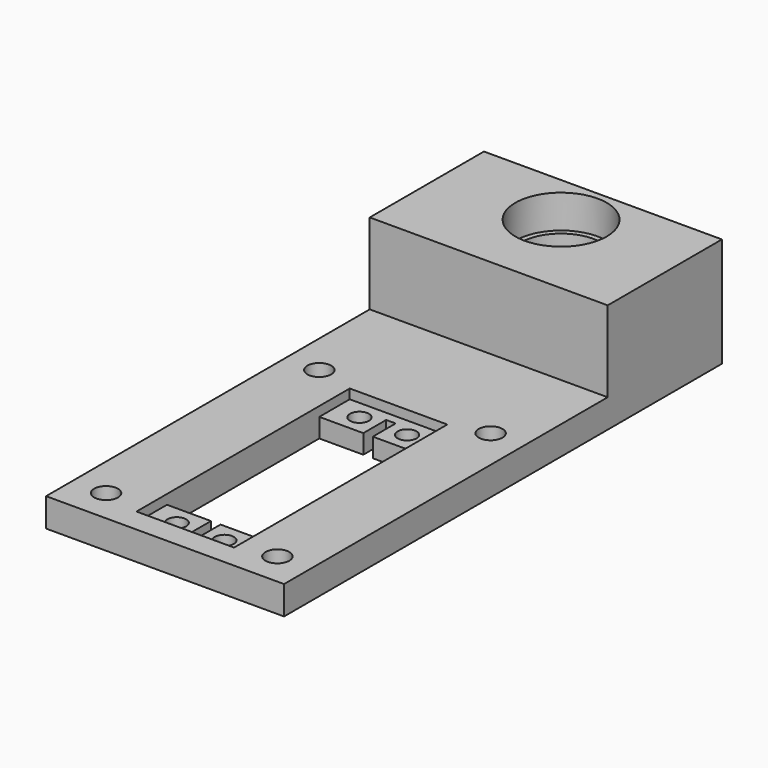
from build123d import *

# Parameters (mm, degrees)
F0_W     = 50
F0_H     = 85
F0_R     = 2.5
F0_R_2   = 2
F0_H_2   = 30
F0_R_3   = 9.6
F1_DEPTH = 6
F2_DEPTH = 2
F3_DEPTH = 17
F0_R_4   = 8.5
F4_DEPTH = 10


with BuildPart() as f1:
    # F0 (on Top) → F1 (new body)
    with BuildSketch(Plane.XY):
        with Locations((25, 42.5)):
            Rectangle(F0_W, F0_H)
        with Locations((7, 7)):
            Circle(F0_R, mode=Mode.SUBTRACT)
        with Locations((43, 7)):
            Circle(F0_R, mode=Mode.SUBTRACT)
        Polygon((35.5, 5), (15, 5), (15, 13), (15, 53), (15, 61), (35.5, 61), (35.5, 53), (35.5, 13), align=None, mode=Mode.SUBTRACT)
        with Locations((7, 63)):
            Circle(F0_R, mode=Mode.SUBTRACT)
        with Locations((43, 63)):
            Circle(F0_R, mode=Mode.SUBTRACT)
        Polygon((15, 61), (15, 53), (24.25, 53), (24.25, 59), (26.25, 59), (26.25, 53), (35.5, 53), (35.5, 61), align=None)
        with Locations((20.25, 57)):
            Circle(F0_R_2, mode=Mode.SUBTRACT)
        with Locations((30.25, 57)):
            Circle(F0_R_2, mode=Mode.SUBTRACT)
        Polygon((15, 13), (15, 5), (35.5, 5), (35.5, 13), (26.25, 13), (26.25, 7), (24.25, 7), (24.25, 13), align=None)
        with Locations((20.25, 9)):
            Circle(F0_R_2, mode=Mode.SUBTRACT)
        with Locations((30.25, 9)):
            Circle(F0_R_2, mode=Mode.SUBTRACT)
        with Locations((25, 100)):
            Rectangle(F0_W, F0_H_2)
        with Locations((25, 104)):
            Circle(F0_R_3, mode=Mode.SUBTRACT)
    extrude(amount=-F1_DEPTH)

    # F0 (on Top) → F2 (cut)
    with BuildSketch(Plane.XY):
        Polygon((15, 61), (15, 53), (24.25, 53), (24.25, 59), (26.25, 59), (26.25, 53), (35.5, 53), (35.5, 61), align=None)
        with Locations((20.25, 57)):
            Circle(F0_R_2, mode=Mode.SUBTRACT)
        with Locations((30.25, 57)):
            Circle(F0_R_2, mode=Mode.SUBTRACT)
        Polygon((15, 13), (15, 5), (35.5, 5), (35.5, 13), (26.25, 13), (26.25, 7), (24.25, 7), (24.25, 13), align=None)
        with Locations((20.25, 9)):
            Circle(F0_R_2, mode=Mode.SUBTRACT)
        with Locations((30.25, 9)):
            Circle(F0_R_2, mode=Mode.SUBTRACT)
    extrude(amount=-F2_DEPTH, mode=Mode.SUBTRACT)

    # F0 (on Top) → F3 (join)
    with BuildSketch(Plane.XY):
        with Locations((25, 100)):
            Rectangle(F0_W, F0_H_2)
        with Locations((25, 104)):
            Circle(F0_R_3, mode=Mode.SUBTRACT)
    extrude(amount=F3_DEPTH)

    # F0 (on Top) → F4 (join)
    with BuildSketch(Plane.XY):
        with Locations((25, 104)):
            Circle(F0_R_3)
        with Locations((25, 104)):
            Circle(F0_R_4, mode=Mode.SUBTRACT)
    extrude(amount=F4_DEPTH)


solid = f1.part
